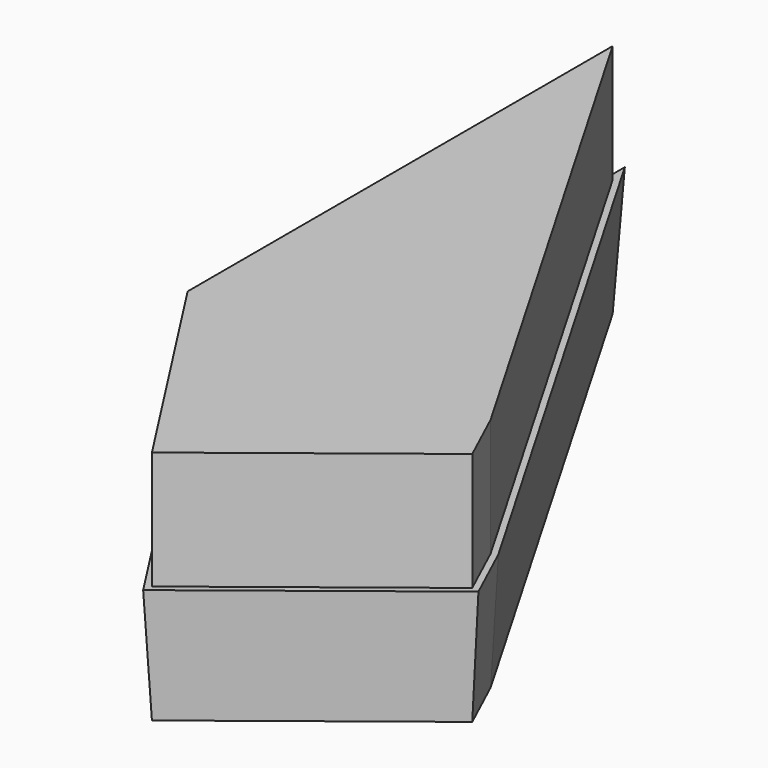
from build123d import *

# Parameters (mm, degrees)
F1_DEPTH = 25.4
F1_TAPER = -3
F2_DEPTH = 50.8


with BuildPart() as f1:
    # F0 (on Top) → F1 (new body)
    with BuildSketch(Plane.XY):
        Polygon((-47.2532361746, 4.6321749687), (-44.2658168909, 0), (0, 0), (21.710716188, 0), (-47.2532361746, 119.0400272608), align=None)
        Polygon((0, 0), (-44.2658168909, 0), (-15.2839384973, -44.9381619692), (27.1117053926, -11.6998553276), (21.710716188, 0), align=None)
        Polygon((-47.2532361746, 4.6321749687), (-44.2658168909, 0), (0, 0), (21.710716188, 0), (-47.2532361746, 119.0400272608), align=None)
        Polygon((0, 0), (-44.2658168909, 0), (-15.2839384973, -44.9381619692), (27.1117053926, -11.6998553276), (21.710716188, 0), align=None)
    extrude(amount=F1_DEPTH, taper=F1_TAPER)

    # F2 (add): a face of the model
    f2_faces = [f1.faces().sort_by_distance(p)[0] for p in [
        (-19.2977055109, 22.6904333903, 0),
    ]]
    extrude(f2_faces, amount=-F2_DEPTH)


solid = f1.part
